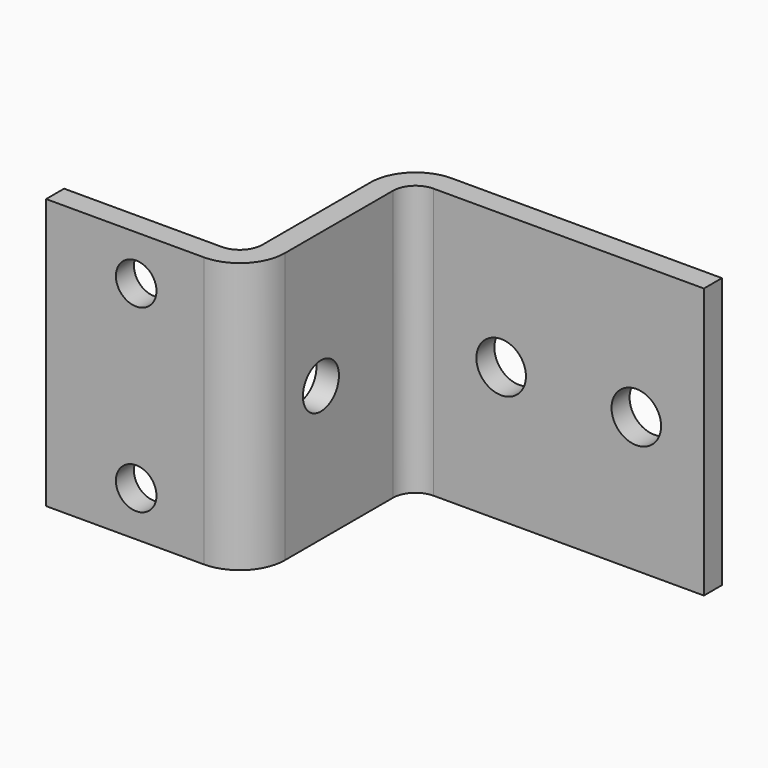
from build123d import *

# Parameters (mm, degrees)
F1_DEPTH = 60
F2_R     = 4.5
F3_DEPTH = 25
F4_R     = 5.5
F5_DEPTH = 25
F6_R     = 5
F7_DEPTH = 25


with BuildPart() as f1:
    # F0 (on Top) → F1 (new body)
    with BuildSketch(Plane.XY):
        with BuildLine():
            Line((-30.144934, 23.315217), (29.855066, 23.315217))
            Line((29.855066, 23.315217), (29.855066, 28.315217))
            Line((29.855066, 28.315217), (-30.144934, 28.315217))
            ThreePointArc((-30.144934, 28.315217), (-37.216002, 25.386285), (-40.144934, 18.315217))
            Line((-40.144934, 18.315217), (-40.144934, -11.684783))
            ThreePointArc((-40.144934, -11.684783), (-41.6094, -15.220316), (-45.144934, -16.684783))
            Line((-45.144934, -16.684783), (-80.144934, -16.684783))
            Line((-80.144934, -16.684783), (-80.144934, -21.684783))
            Line((-80.144934, -21.684783), (-45.144934, -21.684783))
            ThreePointArc((-45.144934, -21.684783), (-38.073867, -18.75585), (-35.144934, -11.684783))
            Line((-35.144934, -11.684783), (-35.144934, 18.315217))
            ThreePointArc((-35.144934, 18.315217), (-33.680468, 21.850751), (-30.144934, 23.315217))
        make_face()
    extrude(amount=F1_DEPTH)

    # F2 (on face) → F3 (cut)
    with BuildSketch(Plane.XZ.offset(21.684783)):
        with Locations((-60.144934, 50)):
            Circle(F2_R)
        with Locations((-60.144934, 10)):
            Circle(F2_R)
    extrude(amount=-F3_DEPTH, mode=Mode.SUBTRACT)

    # F4 (on face) → F5 (cut)
    with BuildSketch(Plane.XZ.offset(-23.315217)):
        with Locations((14.855066, 30)):
            Circle(F4_R)
        with Locations((-15.144934, 30)):
            Circle(F4_R)
    extrude(amount=-F5_DEPTH, mode=Mode.SUBTRACT)

    # F6 (on face) → F7 (cut)
    with BuildSketch(Plane(origin=(-40.144934, 0, 0), x_dir=(0, -1, 0), z_dir=(-1, 0, 0))):
        with Locations((1.684783, 30)):
            Circle(F6_R)
    extrude(amount=-F7_DEPTH, mode=Mode.SUBTRACT)


solid = f1.part
